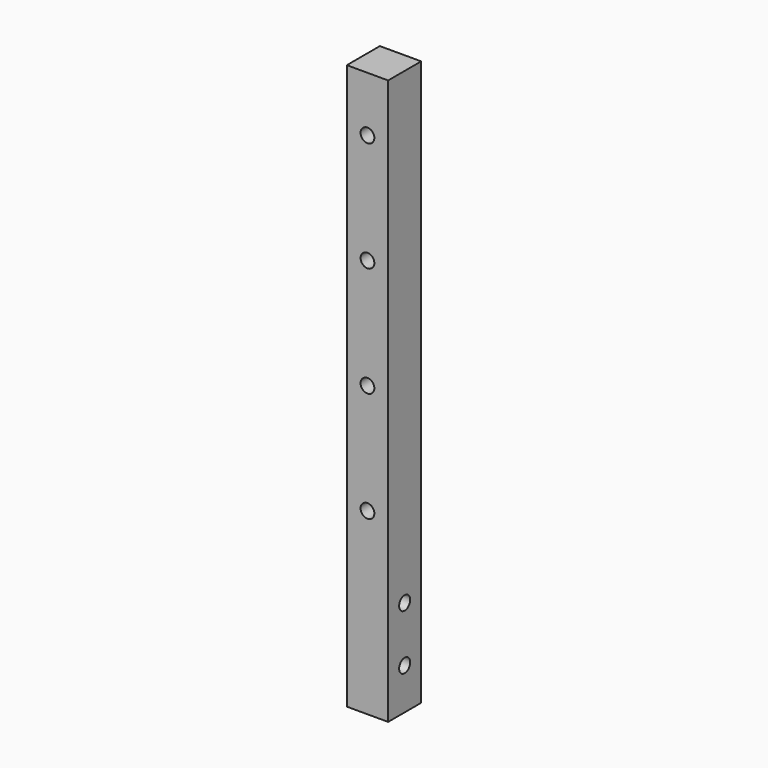
from build123d import *

# Parameters (mm, degrees)
F0_W     = 38.1
F0_H     = 520.7
F0_R     = 6.35
F1_DEPTH = 38.1
F2_R     = 6.35
F3_DEPTH = 38.101


with BuildPart() as f1:
    # F0 (on Front) → F1 (new body)
    with BuildSketch(Plane.XZ):
        with Locations((19.05, 260.35)):
            Rectangle(F0_W, F0_H)
        with Locations((19.05, 165.1)):
            Circle(F0_R, mode=Mode.SUBTRACT)
        with Locations((19.05, 266.7)):
            Circle(F0_R, mode=Mode.SUBTRACT)
        with Locations((19.05, 368.3)):
            Circle(F0_R, mode=Mode.SUBTRACT)
        with Locations((19.05, 469.9)):
            Circle(F0_R, mode=Mode.SUBTRACT)
    extrude(amount=F1_DEPTH)

    # F2 (on face) → F3 (cut, through all)
    with BuildSketch(Plane(origin=(0, 0, 0), x_dir=(0, -1, 0), z_dir=(-1, 0, 0))):
        with Locations((19.05, 38.1)):
            Circle(F2_R)
        with Locations((19.05, 88.9)):
            Circle(F2_R)
    extrude(amount=-F3_DEPTH, mode=Mode.SUBTRACT)


solid = f1.part
